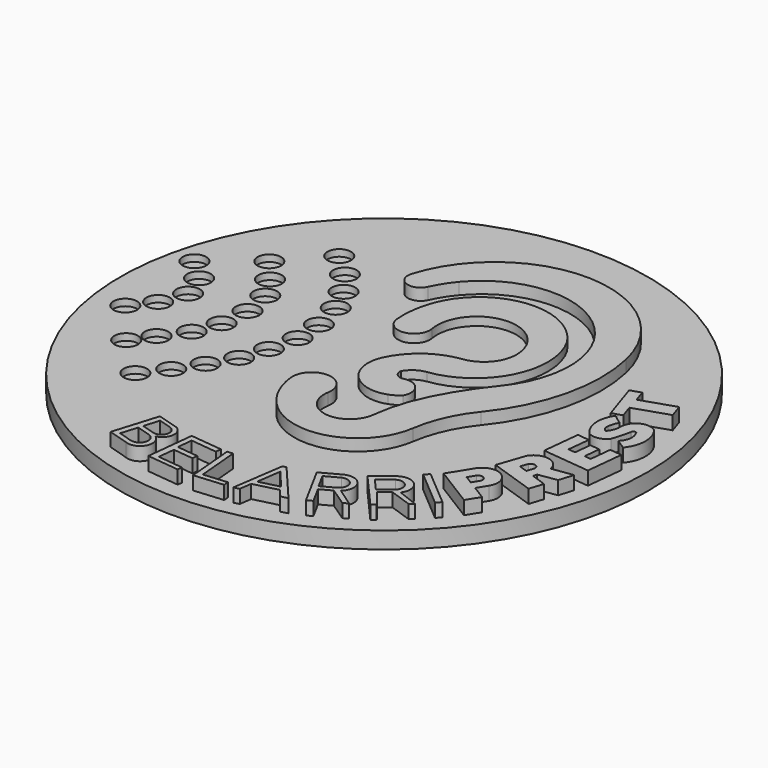
from build123d import *

# Parameters (mm, degrees)
SKETCH_R     = 157.395441
PAD_DEPTH    = 10
PAD001_DEPTH = 17
SKETCH002_R  = 7.015848
POCKET_DEPTH = 4
PAD002_DEPTH = 18
PAD003_DEPTH = 18
PAD004_DEPTH = 15


with BuildPart() as part:
    # Sketch → Pad (new body)
    with BuildSketch(Plane.XY):
        Circle(SKETCH_R)
    extrude(amount=PAD_DEPTH)

    # Sketch001 → Pad001 (join)
    with BuildSketch(Plane.XY):
        with BuildLine():
            ThreePointArc((70.552934, 47.200626), (37.367315, 99.442932), (-22.63763, 84.278817))
            ThreePointArc((-22.63763, 84.278817), (-27.187798, 78.036246), (-30.860395, 71.240235))
            ThreePointArc((-44.98332, 76.553369), (-40.402622, 67.302643), (-30.860395, 71.240235))
            ThreePointArc((86.944948, 71.619819), (22.888898, 125.110731), (-44.98332, 76.553369))
            ThreePointArc((67.147823, -11.778746), (86.584241, 27.656443), (86.944948, 71.619819))
            ThreePointArc((67.147823, -11.778746), (57.772092, -27.110044), (52.788266, -44.376037))
            ThreePointArc((-12.539981, -64.473033), (26.460973, -75.023336), (52.788266, -44.376037))
            ThreePointArc((-23.548949, -40.041066), (-20.019769, -53.147116), (-12.539981, -64.473033))
            ThreePointArc((-0.654977, -40.890164), (-11.61349, -27.295055), (-23.548949, -40.041066))
            ThreePointArc((-0.654977, -40.890164), (12.290233, -58.881801), (29.880756, -45.396588))
            ThreePointArc((39.045843, -14.659603), (33.125852, -29.629298), (29.880756, -45.396588))
            ThreePointArc((57.649843, 14.135601), (47.553609, 0.251138), (39.045843, -14.659603))
            ThreePointArc((57.649843, 14.135601), (66.69966, 29.65418), (70.552934, 47.200626))
        make_face()
    extrude(amount=PAD001_DEPTH)

    # Sketch002 (on Face2 of Pad001) → Pocket (cut)
    with BuildSketch(Plane.XY.offset(10)):
        with Locations((-90.876816, 80.176414)):
            Circle(SKETCH002_R)
        with Locations((-77.218124, 67.321159)):
            Circle(SKETCH002_R)
        with Locations((-66.773224, 53.260735)):
            Circle(SKETCH002_R)
        with Locations((-59.542156, 38.396866)):
            Circle(SKETCH002_R)
        with Locations((-55.123173, 20.31918)):
            Circle(SKETCH002_R)
        with Locations((-54.319717, 3.446668)):
            Circle(SKETCH002_R)
        with Locations((-57.935257, -13.425853)):
            Circle(SKETCH002_R)
        with Locations((-63.157696, -29.093187)):
            Circle(SKETCH002_R)
        with Locations((-89.671646, 10.276014)):
            Circle(SKETCH002_R)
        with Locations((-71.593948, -43.555336)):
            Circle(SKETCH002_R)
        with Locations((-96.902725, -22.26383)):
            Circle(SKETCH002_R)
        with Locations((-106.945877, -35.922535)):
            Circle(SKETCH002_R)
        with Locations((-91.278557, -6.998229)):
            Circle(SKETCH002_R)
        with Locations((-80.833656, -57.615761)):
            Circle(SKETCH002_R)
        with Locations((-91.278557, -71.274467)):
            Circle(SKETCH002_R)
        with Locations((-115.382133, -47.974331)):
            Circle(SKETCH002_R)
        with Locations((-92.885452, 27.550257)):
            Circle(SKETCH002_R)
        with Locations((-101.321709, 41.610683)):
            Circle(SKETCH002_R)
        with Locations((-112.971786, 55.671108)):
            Circle(SKETCH002_R)
        with Locations((-140.289185, 33.977871)):
            Circle(SKETCH002_R)
        with Locations((-127.835663, 21.926086)):
            Circle(SKETCH002_R)
        with Locations((-137.477097, -21.058655)):
            Circle(SKETCH002_R)
        with Locations((-127.835663, -8.605137)):
            Circle(SKETCH002_R)
        with Locations((-122.211494, 6.660465)):
            Circle(SKETCH002_R)
    extrude(amount=-POCKET_DEPTH, mode=Mode.SUBTRACT)

    # Sketch005 → Pad002 (join)
    with BuildSketch(Plane.XY):
        with BuildLine():
            Line((101.933344, -59.335266), (93.654783, -72.676749))
            Line((93.654783, -72.676749), (117.758197, -87.633226))
            Line((117.758197, -87.633226), (122.47339, -80.034362))
            Line((122.47339, -80.034362), (114.218855, -74.912317))
            Line((114.218855, -74.912317), (117.782223, -69.169699))
            ThreePointArc((117.782223, -69.169699), (114.775, -56.328043), (101.933344, -59.335266))
        make_face()
        with BuildLine():
            Line((106.812392, -64.75967), (104.287117, -68.829327))
            Line((104.287117, -68.829327), (109.075199, -71.800393))
            Line((109.075199, -71.800393), (111.75997, -67.473696))
            ThreePointArc((111.75997, -67.473696), (110.420986, -64.04797), (106.812392, -64.75967))
        make_face(mode=Mode.SUBTRACT)
        with BuildLine():
            Line((129.510162, -37.749855), (142.08902, -35.966866))
            Line((142.08902, -35.966866), (139.448547, -44.550186))
            Line((139.448547, -44.550186), (128.368423, -46.299252))
            Line((128.368423, -46.299252), (127.609291, -48.536877))
            Line((127.609291, -48.536877), (136.760971, -51.733521))
            Line((136.760971, -51.733521), (134.132965, -59.9533))
            Line((134.132965, -59.9533), (107.132217, -50.832241))
            Line((107.132217, -50.832241), (112.671972, -34.662026))
            ThreePointArc((129.510162, -37.749855), (122.172589, -30.308308), (112.671972, -34.662026))
        make_face()
        with BuildLine():
            Line((118.495074, -40.373698), (116.91674, -44.93755))
            Line((116.91674, -44.93755), (122.112495, -46.603935))
            Line((122.112495, -46.603935), (123.584061, -41.949829))
            ThreePointArc((123.584061, -41.949829), (121.609746, -39.32078), (118.495074, -40.373698))
        make_face(mode=Mode.SUBTRACT)
        Polygon((118.143465, -3.194662), (115.789776, -25.349682), (144.196167, -28.3675), (146.537985, -6.324224), (139.315028, -5.556876), (137.946457, -18.439086), (133.997651, -18.019576), (135.022837, -8.369609), (129.168108, -7.747619), (128.10341, -17.769506), (123.833816, -17.315916), (125.253771, -3.950042), align=None)
        Polygon((114.892967, 48.844879), (117.306909, 41.555687), (137.420961, 48.216805), (140.159832, 39.946452), (119.733539, 33.181931), (122.306684, 25.412008), (116.374823, 23.447569), (108.648865, 46.777036), align=None)
        with BuildLine():
            ThreePointArc((142.898431, 22.632205), (135.552129, 24.384862), (129.546681, 19.805063))
            ThreePointArc((129.546681, 19.805063), (128.679892, 17.008029), (128.515725, 14.084373))
            ThreePointArc((125.759456, 7.986949), (127.622509, 10.816459), (128.515725, 14.084373))
            ThreePointArc((123.666982, 12.442651), (123.901195, 9.83346), (125.759456, 7.986949))
            ThreePointArc((125.717727, 18.448572), (124.34371, 15.564658), (123.666982, 12.442651))
            ThreePointArc((119.894998, 22.912975), (122.712962, 20.558955), (125.717727, 18.448572))
            ThreePointArc((119.894998, 22.912975), (116.811923, 11.663705), (121.678319, 1.063252))
            ThreePointArc((121.678319, 1.063252), (127.552471, 0.138611), (132.588645, 3.300506))
            ThreePointArc((132.588645, 3.300506), (134.350556, 8.901118), (135.682444, 14.61927))
            ThreePointArc((138.385777, 14.666972), (137.011584, 15.919715), (135.682444, 14.61927))
            ThreePointArc((136.642583, 3.850392), (139.338435, 8.964686), (138.385777, 14.666972))
            Line((136.642583, 3.850392), (142.513992, -0.06378))
            ThreePointArc((142.513992, -0.06378), (146.694503, 11.216656), (142.898431, 22.632205))
        make_face()
    extrude(amount=PAD002_DEPTH)

    # Sketch004 → Pad003 (join)
    with BuildSketch(Plane.XY):
        with BuildLine():
            Line((-45.511721, -110.116109), (-32.519325, -114.07213))
            ThreePointArc((-34.682834, -127.253039), (-28.979124, -121.42123), (-32.519325, -114.07213))
            ThreePointArc((-41.414833, -140.470856), (-32.022641, -136.931163), (-34.682834, -127.253039))
            Line((-41.414833, -140.470856), (-53.68221, -136.735594))
            Line((-45.511721, -110.116109), (-53.68221, -136.735594))
        make_face()
        with BuildLine():
            Line((-35.048094, -115.807719), (-42.730036, -113.468664))
            Line((-42.730036, -113.468664), (-45.521346, -122.635906))
            Line((-45.521346, -122.635906), (-37.839404, -124.97496))
            ThreePointArc((-37.839404, -124.97496), (-31.860128, -121.786994), (-35.048094, -115.807719))
        make_face(mode=Mode.SUBTRACT)
        with BuildLine():
            Line((-38.073263, -127.797267), (-46.329691, -125.283289))
            Line((-46.329691, -125.283289), (-49.321086, -135.107652))
            Line((-49.321086, -135.107652), (-41.064658, -137.62163))
            ThreePointArc((-41.064658, -137.62163), (-34.656779, -134.205146), (-38.073263, -127.797267))
        make_face(mode=Mode.SUBTRACT)
        Polygon((-21.669451, -116.303529), (-24.776794, -144.742594), (-5.594339, -146.838531), (-5.284919, -144.006655), (-20.454267, -142.349203), (-19.366418, -132.39298), (-7.340573, -133.706962), (-6.990001, -130.498455), (-19.708689, -129.10877), (-18.713942, -120.004635), (-2.967967, -121.72509), (-2.603211, -118.386768), align=None)
        Polygon((1.139443, -118.465425), (4.496149, -118.169064), (6.736561, -143.544947), (20.717433, -142.31059), (20.991683, -145.416867), (3.654105, -146.947585), align=None)
        Polygon((25.964269, -144.823541), (29.164683, -144.015555), (30.21566, -136.804611), (44.394028, -133.225102), (48.66636, -138.263557), (52.765096, -137.228779), (32.568058, -113.409968), (30.465346, -113.940824), align=None)
        Polygon((30.964666, -133.308629), (33.085782, -118.75526), (42.876267, -130.301394), align=None, mode=Mode.SUBTRACT)
        with BuildLine():
            Line((57.705133, -102.795875), (46.80533, -108.708983))
            Line((46.80533, -108.708983), (60.422886, -133.810618))
            Line((60.422886, -133.810618), (63.545306, -132.116715))
            Line((63.545306, -132.116715), (57.843059, -121.605597))
            Line((57.843059, -121.605597), (64.47829, -118.006005))
            Line((64.47829, -118.006005), (75.344953, -125.328149))
            Line((75.344953, -125.328149), (78.175326, -123.792681))
            Line((78.175326, -123.792681), (67.182886, -116.118488))
            ThreePointArc((67.182886, -116.118488), (68.342776, -105.260779), (57.705133, -102.795875))
        make_face()
        with BuildLine():
            Line((59.101964, -105.624219), (51.204613, -109.908506))
            Line((51.204613, -109.908506), (56.143544, -119.01258))
            Line((56.143544, -119.01258), (64.052821, -114.721823))
            ThreePointArc((64.052821, -114.721823), (65.809534, -107.869917), (59.101964, -105.624219))
        make_face(mode=Mode.SUBTRACT)
        with BuildLine():
            Line((77.934024, -88.721038), (67.576853, -96.854537))
            Line((67.576853, -96.854537), (86.665112, -118.563745))
            Line((86.665112, -118.563745), (88.999262, -116.730734))
            Line((88.999262, -116.730734), (81.164103, -106.640496))
            Line((81.164103, -106.640496), (86.779198, -102.230956))
            Line((86.779198, -102.230956), (100.068974, -106.833533))
            Line((100.068974, -106.833533), (102.439143, -104.972236))
            Line((102.439143, -104.972236), (90.000736, -100.110899))
            ThreePointArc((90.000736, -100.110899), (89.021628, -89.061368), (77.934024, -88.721038))
        make_face()
        with BuildLine():
            Line((86.676499, -98.961857), (79.054396, -104.947504))
            Line((79.054396, -104.947504), (72.476706, -97.466653))
            Line((72.476706, -97.466653), (80.027512, -91.536995))
            ThreePointArc((86.676499, -98.961857), (86.40547, -92.515039), (80.027512, -91.536995))
        make_face(mode=Mode.SUBTRACT)
        Polygon((89.244569, -76.876566), (111.215822, -95.516306), (108.945953, -98.191872), (86.9747, -79.552132), align=None)
    extrude(amount=PAD003_DEPTH)

    # Sketch006 → Pad004 (join)
    with BuildSketch(Plane.XY):
        with BuildLine():
            ThreePointArc((41.685091, 46.583608), (15.896845, 70.195539), (-5.355472, 42.430527))
            ThreePointArc((-24.22085, 39.889851), (-13.462978, 31.320252), (-5.355472, 42.430527))
            ThreePointArc((-21.053171, 63.400705), (-23.968314, 51.824648), (-24.22085, 39.889851))
            ThreePointArc((52.141375, 71.190302), (13.141938, 89.867312), (-21.053171, 63.400705))
            ThreePointArc((20.080308, 6.874147), (53.187735, 30.519535), (52.141375, 71.190302))
            ThreePointArc((20.080308, 6.874147), (14.229738, 4.634461), (10.014631, 0))
            ThreePointArc((10.014631, 0), (11.553599, -4.232806), (15.944475, -5.235443))
            ThreePointArc((26.171709, -18.496343), (25.380022, -8.532681), (15.944475, -5.235443))
            ThreePointArc((19.97826, -22.225985), (23.260343, -20.66897), (26.171709, -18.496343))
            ThreePointArc((-5.244416, 5.286333), (-1.770792, -16.847077), (19.97826, -22.225985))
            ThreePointArc((24.714431, 27.301683), (6.886773, 20.169932), (-5.244416, 5.286333))
            ThreePointArc((24.714431, 27.301683), (36.838136, 33.740392), (41.685091, 46.583608))
        make_face()
    extrude(amount=PAD004_DEPTH)


solid = part.part
